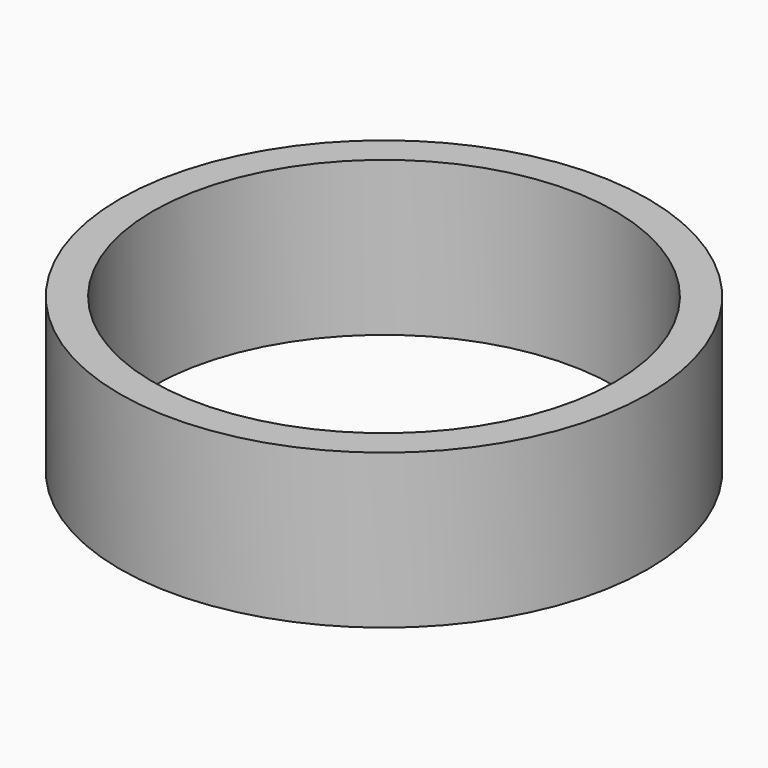
from build123d import *

# Parameters (mm, degrees)
CYLINDER026_R     = 10.5
CYLINDER026_DEPTH = 13
CYLINDER025_R     = 12
CYLINDER025_DEPTH = 7


with BuildPart() as cylinder026:
    # Cylinder026 → Cylinder026 (new body)
    with BuildSketch(Plane.XY.offset(-6)):
        Circle(CYLINDER026_R)
    extrude(amount=CYLINDER026_DEPTH)


with BuildPart() as cut097:
    # Cylinder025 → Cylinder025 (new body)
    with BuildSketch(Plane.XY.offset(-6)):
        Circle(CYLINDER025_R)
    extrude(amount=CYLINDER025_DEPTH)

    # Cut097: cut Cylinder026
    add(cylinder026.part, mode=Mode.SUBTRACT)


solid = cut097.part
